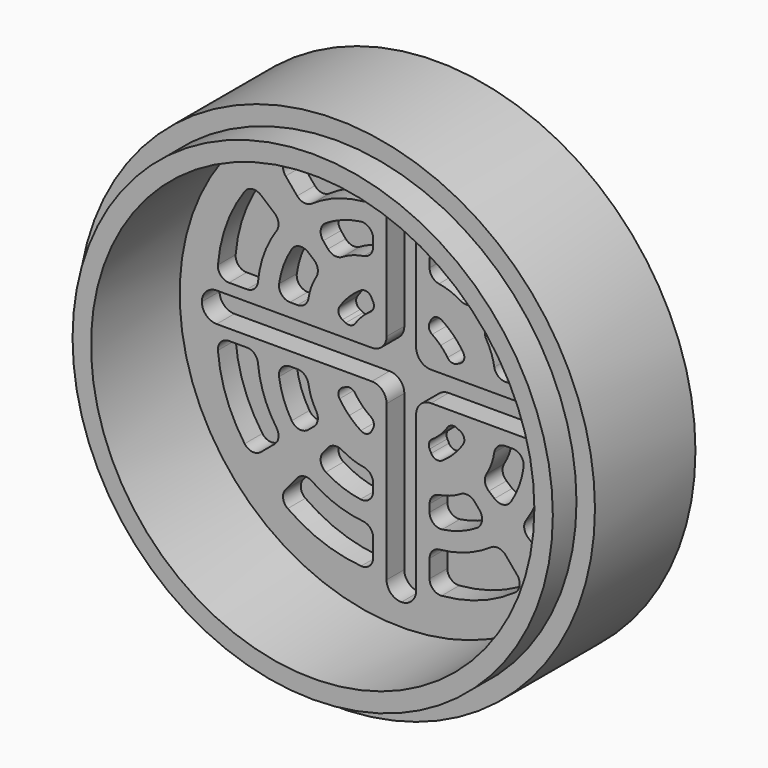
from build123d import *

# Parameters (mm, degrees)
F0_R      = 35
F1_DEPTH  = 21
F2_R      = 30
F3_DEPTH  = 15
F4_R      = 35
F4_R_2    = 32.5
F5_DEPTH  = 4
F7_DEPTH  = 3
F9_DEPTH  = 3
F11_DEPTH = 3
F13_DEPTH = 3


with BuildPart() as f1:
    # F0 (on Front) → F1 (new body)
    with BuildSketch(Plane.XZ):
        Circle(F0_R)
    extrude(amount=F1_DEPTH)

    # F2 (on face) → F3 (cut)
    with BuildSketch(Plane.XZ.offset(21)):
        Circle(F2_R)
    extrude(amount=-F3_DEPTH, mode=Mode.SUBTRACT)

    # F4 (on face) → F5 (cut)
    with BuildSketch(Plane.XZ.offset(21)):
        Circle(F4_R)
        Circle(F4_R_2, mode=Mode.SUBTRACT)
    extrude(amount=-F5_DEPTH, mode=Mode.SUBTRACT)

    # F6 (on face) → F7 (cut)
    with BuildSketch(Plane.XZ.offset(6)):
        with BuildLine():
            Line((-2, 25), (-2, 4))
            ThreePointArc((-2, 4), (-2.5857864376, 2.5857864376), (-4, 2))
            Line((-4, 2), (-25, 2))
            ThreePointArc((-25, 2), (-26.4142135624, 1.4142135624), (-27, 0))
            ThreePointArc((-27, 0), (-26.4142135624, -1.4142135624), (-25, -2))
            Line((-25, -2), (-4, -2))
            ThreePointArc((-4, -2), (-2.5857864376, -2.5857864376), (-2, -4))
            Line((-2, -4), (-2, -25))
            ThreePointArc((-2, -25), (-1.4142135624, -26.4142135624), (0, -27))
            ThreePointArc((0, -27), (1.4142135624, -26.4142135624), (2, -25))
            Line((2, -25), (2, -4))
            ThreePointArc((2, -4), (2.5857864376, -2.5857864376), (4, -2))
            Line((4, -2), (25, -2))
            ThreePointArc((25, -2), (26.4142135624, -1.4142135624), (27, 0))
            ThreePointArc((27, 0), (26.4142135624, 1.4142135624), (25, 2))
            Line((25, 2), (4, 2))
            ThreePointArc((4, 2), (2.5857864376, 2.5857864376), (2, 4))
            Line((2, 4), (2, 25))
            ThreePointArc((2, 25), (1.4142135624, 26.4142135624), (0, 27))
            ThreePointArc((0, 27), (-1.4142135624, 26.4142135624), (-2, 25))
        make_face()
    extrude(amount=-F7_DEPTH, mode=Mode.SUBTRACT)

    # F8 (on face) → F9 (cut)
    with BuildSketch(Plane.XZ.offset(6)):
        with BuildLine():
            ThreePointArc((-6.2418124533, 4.158097798), (-5.8008863858, 4.7539159794), (-5.3033008589, 5.3033008589))
            ThreePointArc((-5.3033008589, 5.3033008589), (-4.7539159794, 5.8008863858), (-4.158097798, 6.2418124533))
            ThreePointArc((-4.158097798, 6.2418124533), (-3.7452779389, 6.8201633509), (-3.8208236397, 7.5267062328))
            Line((-3.8208236397, 7.5267062328), (-4.0486436331, 7.9754927579))
            ThreePointArc((-4.0486436331, 7.9754927579), (-4.6832596686, 8.4892331148), (-5.4892564791, 8.358711821))
            ThreePointArc((-5.4892564791, 8.358711821), (-6.3130771694, 7.7553244067), (-7.0710678119, 7.0710678119))
            ThreePointArc((-7.0710678119, 7.0710678119), (-7.7553244067, 6.3130771694), (-8.358711821, 5.4892564791))
            ThreePointArc((-8.358711821, 5.4892564791), (-8.4892331148, 4.6832596686), (-7.9754927579, 4.0486436331))
            Line((-7.9754927579, 4.0486436331), (-7.5267062328, 3.8208236397))
            ThreePointArc((-7.5267062328, 3.8208236397), (-6.8201633509, 3.7452779389), (-6.2418124533, 4.158097798))
        make_face()
        with BuildLine():
            ThreePointArc((6.2418124533, 4.158097798), (6.8201633509, 3.7452779389), (7.5267062328, 3.8208236397))
            Line((7.5267062328, 3.8208236397), (7.9754927579, 4.0486436331))
            ThreePointArc((7.9754927579, 4.0486436331), (8.4892331148, 4.6832596686), (8.358711821, 5.4892564791))
            ThreePointArc((8.358711821, 5.4892564791), (7.7553244067, 6.3130771694), (7.0710678119, 7.0710678119))
            ThreePointArc((7.0710678119, 7.0710678119), (6.3130771694, 7.7553244067), (5.4892564791, 8.358711821))
            ThreePointArc((5.4892564791, 8.358711821), (4.6832596686, 8.4892331148), (4.0486436331, 7.9754927579))
            Line((4.0486436331, 7.9754927579), (3.8208236397, 7.5267062328))
            ThreePointArc((3.8208236397, 7.5267062328), (3.7452779389, 6.8201633509), (4.158097798, 6.2418124533))
            ThreePointArc((4.158097798, 6.2418124533), (4.7539159794, 5.8008863858), (5.3033008589, 5.3033008589))
            ThreePointArc((5.3033008589, 5.3033008589), (5.8008863858, 4.7539159794), (6.2418124533, 4.158097798))
        make_face()
        with BuildLine():
            ThreePointArc((4.158097798, -6.2418124533), (3.7452779389, -6.8201633509), (3.8208236397, -7.5267062328))
            Line((3.8208236397, -7.5267062328), (4.0486436331, -7.9754927579))
            ThreePointArc((4.0486436331, -7.9754927579), (4.6832596686, -8.4892331148), (5.4892564791, -8.358711821))
            ThreePointArc((5.4892564791, -8.358711821), (6.3130771694, -7.7553244067), (7.0710678119, -7.0710678119))
            ThreePointArc((7.0710678119, -7.0710678119), (7.7553244067, -6.3130771694), (8.358711821, -5.4892564791))
            ThreePointArc((8.358711821, -5.4892564791), (8.4892331148, -4.6832596686), (7.9754927579, -4.0486436331))
            Line((7.9754927579, -4.0486436331), (7.5267062328, -3.8208236397))
            ThreePointArc((7.5267062328, -3.8208236397), (6.8201633509, -3.7452779389), (6.2418124533, -4.158097798))
            ThreePointArc((6.2418124533, -4.158097798), (5.8008863858, -4.7539159794), (5.3033008589, -5.3033008589))
            ThreePointArc((5.3033008589, -5.3033008589), (4.7539159794, -5.8008863858), (4.158097798, -6.2418124533))
        make_face()
        with BuildLine():
            ThreePointArc((-6.2418124533, -4.158097798), (-6.8201633509, -3.7452779389), (-7.5267062328, -3.8208236397))
            Line((-7.5267062328, -3.8208236397), (-7.9754927579, -4.0486436331))
            ThreePointArc((-7.9754927579, -4.0486436331), (-8.4892331148, -4.6832596686), (-8.358711821, -5.4892564791))
            ThreePointArc((-8.358711821, -5.4892564791), (-7.7553244067, -6.3130771694), (-7.0710678119, -7.0710678119))
            ThreePointArc((-7.0710678119, -7.0710678119), (-6.3130771694, -7.7553244067), (-5.4892564791, -8.358711821))
            ThreePointArc((-5.4892564791, -8.358711821), (-4.6832596686, -8.4892331148), (-4.0486436331, -7.9754927579))
            Line((-4.0486436331, -7.9754927579), (-3.8208236397, -7.5267062328))
            ThreePointArc((-3.8208236397, -7.5267062328), (-3.7452779389, -6.8201633509), (-4.158097798, -6.2418124533))
            ThreePointArc((-4.158097798, -6.2418124533), (-4.7539159794, -5.8008863858), (-5.3033008589, -5.3033008589))
            ThreePointArc((-5.3033008589, -5.3033008589), (-5.8008863858, -4.7539159794), (-6.2418124533, -4.158097798))
        make_face()
    extrude(amount=-F9_DEPTH, mode=Mode.SUBTRACT)

    # F10 (on face) → F11 (cut)
    with BuildSketch(Plane.XZ.offset(6)):
        with BuildLine():
            Line((-10.5766128188, 12.6047163243), (-9.9298306134, 11.8339113074))
            ThreePointArc((-9.9298306134, 11.8339113074), (-9.0279348505, 11.3185973535), (-8.0075108151, 11.5127602392))
            ThreePointArc((-8.0075108151, 11.5127602392), (-6.5985647546, 12.1852612896), (-5.0869741116, 12.5757486673))
            ThreePointArc((-5.0869741116, 12.5757486673), (-4.1804784525, 13.0829271943), (-3.8208236397, 14.0574080068))
            Line((-3.8208236397, 14.0574080068), (-3.8208236397, 15.0636224945))
            ThreePointArc((-3.8208236397, 15.0636224945), (-4.3379444828, 16.1967370354), (-5.5327550568, 16.5485753807))
            ThreePointArc((-5.5327550568, 16.5485753807), (-7.964959299, 15.9393994465), (-10.219706586, 14.8426645347))
            ThreePointArc((-10.219706586, 14.8426645347), (-10.9088272578, 13.8051312924), (-10.5766128188, 12.6047163243))
        make_face()
        with BuildLine():
            ThreePointArc((-16.5485753807, 5.5327550568), (-16.1967370354, 4.3379444828), (-15.0636224945, 3.8208236397))
            Line((-15.0636224945, 3.8208236397), (-14.0574080068, 3.8208236397))
            ThreePointArc((-14.0574080068, 3.8208236397), (-13.0829271943, 4.1804784525), (-12.5757486673, 5.0869741116))
            ThreePointArc((-12.5757486673, 5.0869741116), (-12.1852612896, 6.5985647546), (-11.5127602392, 8.0075108151))
            ThreePointArc((-11.5127602392, 8.0075108151), (-11.3185973535, 9.0279348505), (-11.8339113074, 9.9298306134))
            Line((-11.8339113074, 9.9298306134), (-12.6047163243, 10.5766128188))
            ThreePointArc((-12.6047163243, 10.5766128188), (-13.8051312924, 10.9088272578), (-14.8426645347, 10.219706586))
            ThreePointArc((-14.8426645347, 10.219706586), (-15.9393994465, 7.964959299), (-16.5485753807, 5.5327550568))
        make_face()
        with BuildLine():
            Line((-12.6047163243, -10.5766128188), (-11.8339113074, -9.9298306134))
            ThreePointArc((-11.8339113074, -9.9298306134), (-11.3185973535, -9.0279348505), (-11.5127602392, -8.0075108151))
            ThreePointArc((-11.5127602392, -8.0075108151), (-12.1852612896, -6.5985647546), (-12.5757486673, -5.0869741116))
            ThreePointArc((-12.5757486673, -5.0869741116), (-13.0829271943, -4.1804784525), (-14.0574080068, -3.8208236397))
            Line((-14.0574080068, -3.8208236397), (-15.0636224945, -3.8208236397))
            ThreePointArc((-15.0636224945, -3.8208236397), (-16.1967370354, -4.3379444828), (-16.5485753807, -5.5327550568))
            ThreePointArc((-16.5485753807, -5.5327550568), (-15.9393994465, -7.964959299), (-14.8426645347, -10.219706586))
            ThreePointArc((-14.8426645347, -10.219706586), (-13.8051312924, -10.9088272578), (-12.6047163243, -10.5766128188))
        make_face()
        with BuildLine():
            ThreePointArc((-8.0075108151, -11.5127602392), (-9.0279348505, -11.3185973535), (-9.9298306134, -11.8339113074))
            Line((-9.9298306134, -11.8339113074), (-10.5766128188, -12.6047163243))
            ThreePointArc((-10.5766128188, -12.6047163243), (-10.9088272578, -13.8051312924), (-10.219706586, -14.8426645347))
            ThreePointArc((-10.219706586, -14.8426645347), (-7.964959299, -15.9393994465), (-5.5327550568, -16.5485753807))
            ThreePointArc((-5.5327550568, -16.5485753807), (-4.3379444828, -16.1967370354), (-3.8208236397, -15.0636224945))
            Line((-3.8208236397, -15.0636224945), (-3.8208236397, -14.0574080068))
            ThreePointArc((-3.8208236397, -14.0574080068), (-4.1804784525, -13.0829271943), (-5.0869741116, -12.5757486673))
            ThreePointArc((-5.0869741116, -12.5757486673), (-6.5985647546, -12.1852612896), (-8.0075108151, -11.5127602392))
        make_face()
        with BuildLine():
            ThreePointArc((11.5127602392, -8.0075108151), (11.3185973535, -9.0279348505), (11.8339113074, -9.9298306134))
            Line((11.8339113074, -9.9298306134), (12.6047163243, -10.5766128188))
            ThreePointArc((12.6047163243, -10.5766128188), (13.8051312924, -10.9088272578), (14.8426645347, -10.219706586))
            ThreePointArc((14.8426645347, -10.219706586), (15.9393994465, -7.964959299), (16.5485753807, -5.5327550568))
            ThreePointArc((16.5485753807, -5.5327550568), (16.1967370354, -4.3379444828), (15.0636224945, -3.8208236397))
            Line((15.0636224945, -3.8208236397), (14.0574080068, -3.8208236397))
            ThreePointArc((14.0574080068, -3.8208236397), (13.0829271943, -4.1804784525), (12.5757486673, -5.0869741116))
            ThreePointArc((12.5757486673, -5.0869741116), (12.1852612896, -6.5985647546), (11.5127602392, -8.0075108151))
        make_face()
        with BuildLine():
            Line((12.6047163243, 10.5766128188), (11.8339113074, 9.9298306134))
            ThreePointArc((11.8339113074, 9.9298306134), (11.3185973535, 9.0279348505), (11.5127602392, 8.0075108151))
            ThreePointArc((11.5127602392, 8.0075108151), (12.1852612896, 6.5985647546), (12.5757486673, 5.0869741116))
            ThreePointArc((12.5757486673, 5.0869741116), (13.0829271943, 4.1804784525), (14.0574080068, 3.8208236397))
            Line((14.0574080068, 3.8208236397), (15.0636224945, 3.8208236397))
            ThreePointArc((15.0636224945, 3.8208236397), (16.1967370354, 4.3379444828), (16.5485753807, 5.5327550568))
            ThreePointArc((16.5485753807, 5.5327550568), (15.9393994465, 7.964959299), (14.8426645347, 10.219706586))
            ThreePointArc((14.8426645347, 10.219706586), (13.8051312924, 10.9088272578), (12.6047163243, 10.5766128188))
        make_face()
        with BuildLine():
            ThreePointArc((8.0075108151, 11.5127602392), (9.0279348505, 11.3185973535), (9.9298306134, 11.8339113074))
            Line((9.9298306134, 11.8339113074), (10.5766128188, 12.6047163243))
            ThreePointArc((10.5766128188, 12.6047163243), (10.9088272578, 13.8051312924), (10.219706586, 14.8426645347))
            ThreePointArc((10.219706586, 14.8426645347), (7.964959299, 15.9393994465), (5.5327550568, 16.5485753807))
            ThreePointArc((5.5327550568, 16.5485753807), (4.3379444828, 16.1967370354), (3.8208236397, 15.0636224945))
            Line((3.8208236397, 15.0636224945), (3.8208236397, 14.0574080068))
            ThreePointArc((3.8208236397, 14.0574080068), (4.1804784525, 13.0829271943), (5.0869741116, 12.5757486673))
            ThreePointArc((5.0869741116, 12.5757486673), (6.5985647546, 12.1852612896), (8.0075108151, 11.5127602392))
        make_face()
        with BuildLine():
            Line((10.5766128188, -12.6047163243), (9.9298306134, -11.8339113074))
            ThreePointArc((9.9298306134, -11.8339113074), (9.0279348505, -11.3185973535), (8.0075108151, -11.5127602392))
            ThreePointArc((8.0075108151, -11.5127602392), (6.5985647546, -12.1852612896), (5.0869741116, -12.5757486673))
            ThreePointArc((5.0869741116, -12.5757486673), (4.1804784525, -13.0829271943), (3.8208236397, -14.0574080068))
            Line((3.8208236397, -14.0574080068), (3.8208236397, -15.0636224945))
            ThreePointArc((3.8208236397, -15.0636224945), (4.3379444828, -16.1967370354), (5.5327550568, -16.5485753807))
            ThreePointArc((5.5327550568, -16.5485753807), (7.964959299, -15.9393994465), (10.219706586, -14.8426645347))
            ThreePointArc((10.219706586, -14.8426645347), (10.9088272578, -13.8051312924), (10.5766128188, -12.6047163243))
        make_face()
    extrude(amount=-F11_DEPTH, mode=Mode.SUBTRACT)

    # F12 (on face) → F13 (cut)
    with BuildSketch(Plane.XZ.offset(6)):
        with BuildLine():
            Line((-15.6646150969, 18.6683613183), (-14.1014142356, 16.8054110759))
            ThreePointArc((-14.1014142356, 16.8054110759), (-13.15278075, 16.2830439575), (-12.0996749977, 16.5355140962))
            ThreePointArc((-12.0996749977, 16.5355140962), (-8.801986428, 18.2391125827), (-5.180758425, 19.0537937821))
            ThreePointArc((-5.180758425, 19.0537937821), (-4.2117479385, 19.5373137645), (-3.8208236397, 20.5472400434))
            Line((-3.8208236397, 20.5472400434), (-3.8208236397, 22.9791488695))
            ThreePointArc((-3.8208236397, 22.9791488695), (-4.3041045125, 24.0820007256), (-5.4425332615, 24.4742029716))
            ThreePointArc((-5.4425332615, 24.4742029716), (-10.6566516017, 23.3347632682), (-15.3833157053, 20.8560540567))
            ThreePointArc((-15.3833157053, 20.8560540567), (-16.0032999782, 19.8238418112), (-15.6646150969, 18.6683613183))
        make_face()
        with BuildLine():
            ThreePointArc((-16.8867564269, 11.7484326671), (-16.6342862881, 12.8015384193), (-17.1566534065, 13.7501719049))
            Line((-17.1566534065, 13.7501719049), (-19.0196036489, 15.3133727662))
            ThreePointArc((-19.0196036489, 15.3133727662), (-20.1750841419, 15.6520576475), (-21.2072963873, 15.0320733747))
            ThreePointArc((-21.2072963873, 15.0320733747), (-23.6860055988, 10.3054092711), (-24.8254453022, 5.0912909308))
            ThreePointArc((-24.8254453022, 5.0912909308), (-24.4332430562, 3.9528621818), (-23.3303912002, 3.4695813091))
            Line((-23.3303912002, 3.4695813091), (-20.8984823741, 3.4695813091))
            ThreePointArc((-20.8984823741, 3.4695813091), (-19.8885560951, 3.8605056078), (-19.4050361127, 4.8295160944))
            ThreePointArc((-19.4050361127, 4.8295160944), (-18.5903549133, 8.4507440973), (-16.8867564269, 11.7484326671))
        make_face()
        with BuildLine():
            Line((-19.0196036489, -15.3133727662), (-17.1566534065, -13.7501719049))
            ThreePointArc((-17.1566534065, -13.7501719049), (-16.6342862881, -12.8015384193), (-16.8867564269, -11.7484326671))
            ThreePointArc((-16.8867564269, -11.7484326671), (-18.5903549133, -8.4507440973), (-19.4050361127, -4.8295160944))
            ThreePointArc((-19.4050361127, -4.8295160944), (-19.8885560951, -3.8605056078), (-20.8984823741, -3.4695813091))
            Line((-20.8984823741, -3.4695813091), (-23.3303912002, -3.4695813091))
            ThreePointArc((-23.3303912002, -3.4695813091), (-24.4332430562, -3.9528621818), (-24.8254453022, -5.0912909308))
            ThreePointArc((-24.8254453022, -5.0912909308), (-23.6860055988, -10.3054092711), (-21.2072963873, -15.0320733747))
            ThreePointArc((-21.2072963873, -15.0320733747), (-20.1750841419, -15.6520576475), (-19.0196036489, -15.3133727662))
        make_face()
        with BuildLine():
            ThreePointArc((-12.0996749977, -16.5355140962), (-13.15278075, -16.2830439575), (-14.1014142356, -16.8054110759))
            Line((-14.1014142356, -16.8054110759), (-15.6646150969, -18.6683613183))
            ThreePointArc((-15.6646150969, -18.6683613183), (-16.0032999782, -19.8238418112), (-15.3833157053, -20.8560540567))
            ThreePointArc((-15.3833157053, -20.8560540567), (-10.6566516017, -23.3347632682), (-5.4425332615, -24.4742029716))
            ThreePointArc((-5.4425332615, -24.4742029716), (-4.3041045125, -24.0820007256), (-3.8208236397, -22.9791488695))
            Line((-3.8208236397, -22.9791488695), (-3.8208236397, -20.5472400434))
            ThreePointArc((-3.8208236397, -20.5472400434), (-4.2117479385, -19.5373137645), (-5.180758425, -19.0537937821))
            ThreePointArc((-5.180758425, -19.0537937821), (-8.801986428, -18.2391125827), (-12.0996749977, -16.5355140962))
        make_face()
        with BuildLine():
            ThreePointArc((5.180758425, -19.0537937821), (4.2117479385, -19.5373137645), (3.8208236397, -20.5472400434))
            Line((3.8208236397, -20.5472400434), (3.8208236397, -22.9791488695))
            ThreePointArc((3.8208236397, -22.9791488695), (4.3041045125, -24.0820007256), (5.4425332615, -24.4742029716))
            ThreePointArc((5.4425332615, -24.4742029716), (10.6566516017, -23.3347632682), (15.3833157053, -20.8560540567))
            ThreePointArc((15.3833157053, -20.8560540567), (16.0032999782, -19.8238418112), (15.6646150969, -18.6683613183))
            Line((15.6646150969, -18.6683613183), (14.1014142356, -16.8054110759))
            ThreePointArc((14.1014142356, -16.8054110759), (13.15278075, -16.2830439575), (12.0996749977, -16.5355140962))
            ThreePointArc((12.0996749977, -16.5355140962), (8.801986428, -18.2391125827), (5.180758425, -19.0537937821))
        make_face()
        with BuildLine():
            ThreePointArc((24.8254453022, -5.0912909308), (24.4332430562, -3.9528621818), (23.3303912002, -3.4695813091))
            Line((23.3303912002, -3.4695813091), (20.8984823741, -3.4695813091))
            ThreePointArc((20.8984823741, -3.4695813091), (19.8885560951, -3.8605056078), (19.4050361127, -4.8295160944))
            ThreePointArc((19.4050361127, -4.8295160944), (18.5903549133, -8.4507440973), (16.8867564269, -11.7484326671))
            ThreePointArc((16.8867564269, -11.7484326671), (16.6342862881, -12.8015384193), (17.1566534065, -13.7501719049))
            Line((17.1566534065, -13.7501719049), (19.0196036489, -15.3133727662))
            ThreePointArc((19.0196036489, -15.3133727662), (20.1750841419, -15.6520576475), (21.2072963873, -15.0320733747))
            ThreePointArc((21.2072963873, -15.0320733747), (23.6860055988, -10.3054092711), (24.8254453022, -5.0912909308))
        make_face()
        with BuildLine():
            Line((20.8984823741, 3.4695813091), (23.3303912002, 3.4695813091))
            ThreePointArc((23.3303912002, 3.4695813091), (24.4332430562, 3.9528621818), (24.8254453022, 5.0912909308))
            ThreePointArc((24.8254453022, 5.0912909308), (23.6860055988, 10.3054092711), (21.2072963873, 15.0320733747))
            ThreePointArc((21.2072963873, 15.0320733747), (20.1750841419, 15.6520576475), (19.0196036489, 15.3133727662))
            Line((19.0196036489, 15.3133727662), (17.1566534065, 13.7501719049))
            ThreePointArc((17.1566534065, 13.7501719049), (16.6342862881, 12.8015384193), (16.8867564269, 11.7484326671))
            ThreePointArc((16.8867564269, 11.7484326671), (18.5903549133, 8.4507440973), (19.4050361127, 4.8295160944))
            ThreePointArc((19.4050361127, 4.8295160944), (19.8885560951, 3.8605056078), (20.8984823741, 3.4695813091))
        make_face()
        with BuildLine():
            Line((3.8208236397, 22.9791488695), (3.8208236397, 20.5472400434))
            ThreePointArc((3.8208236397, 20.5472400434), (4.2117479385, 19.5373137645), (5.180758425, 19.0537937821))
            ThreePointArc((5.180758425, 19.0537937821), (8.801986428, 18.2391125827), (12.0996749977, 16.5355140962))
            ThreePointArc((12.0996749977, 16.5355140962), (13.15278075, 16.2830439575), (14.1014142356, 16.8054110759))
            Line((14.1014142356, 16.8054110759), (15.6646150969, 18.6683613183))
            ThreePointArc((15.6646150969, 18.6683613183), (16.0032999782, 19.8238418112), (15.3833157053, 20.8560540567))
            ThreePointArc((15.3833157053, 20.8560540567), (10.6566516017, 23.3347632682), (5.4425332615, 24.4742029716))
            ThreePointArc((5.4425332615, 24.4742029716), (4.3041045125, 24.0820007256), (3.8208236397, 22.9791488695))
        make_face()
    extrude(amount=-F13_DEPTH, mode=Mode.SUBTRACT)


solid = f1.part
